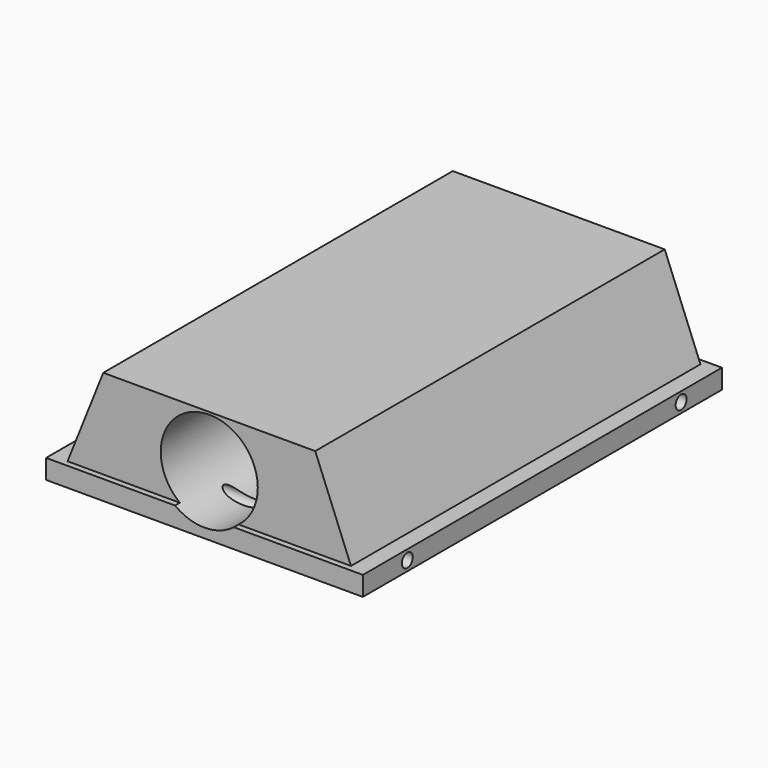
from build123d import *

# Parameters (mm, degrees)
F1_DEPTH      = 57.15
F3_DEPTH      = 2.54
F4_R          = 12.699236
F5_DEPTH      = 98.806
F5_DEPTH_BACK = 38.1
F6_R          = 1.785731
F6_R_2        = 1.796868
F7_DEPTH      = 49.53


with BuildPart() as f1:
    # F0 (on Front) → F1 (new body, symmetric)
    with BuildSketch(Plane.XZ):
        Polygon((-38.091652, 0), (0, 0), (38.091652, 0), (27.730556, 25.96328), (0, 25.96328), (-27.730556, 25.96328), align=None)
    extrude(amount=F1_DEPTH, both=True)

    # F2 (on Top) → F3 (join, symmetric)
    with BuildSketch(Plane.XY):
        Polygon((-41.44403, 58.712374), (-41.44403, 0), (-41.44403, -58.712374), (0, -58.712374), (41.44403, -58.712374), (41.44403, 0), (41.44403, 58.712374), (0, 58.712374), align=None)
    extrude(amount=F3_DEPTH, both=True)

    # F4 (on Front) → F5 (cut, two sides)
    with BuildSketch(Plane.XZ) as f5_sk:
        with Locations((0, 12.640108)):
            Circle(F4_R)
    extrude(amount=F5_DEPTH, mode=Mode.SUBTRACT)
    extrude(f5_sk.sketch, amount=-F5_DEPTH_BACK, mode=Mode.SUBTRACT)

    # F6 (on Right) → F7 (cut, symmetric)
    with BuildSketch(Plane.YZ):
        with Locations((-44.18141, 0)):
            Circle(F6_R)
        with Locations((45.368254, 0)):
            Circle(F6_R_2)
    extrude(amount=F7_DEPTH, both=True, mode=Mode.SUBTRACT)


solid = f1.part
